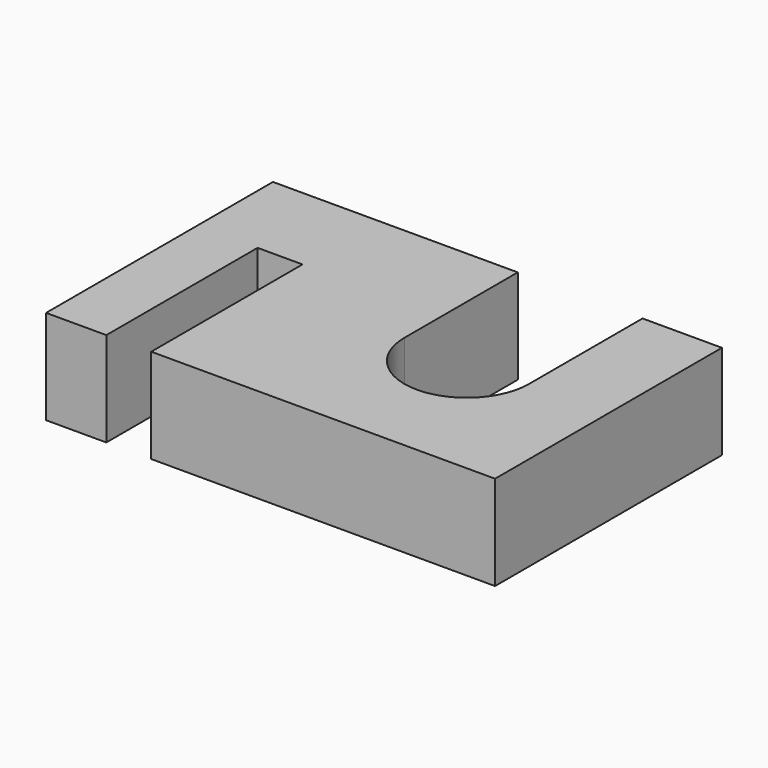
from build123d import *

# Parameters (mm, degrees)
F1_DEPTH = 25.4


with BuildPart() as f1:
    # F0 (on Top) → F1 (new body)
    with BuildSketch(Plane.XY):
        with BuildLine():
            Line((38.1, -38.1), (38.1, 38.1))
            Line((38.1, 38.1), (16.764, 38.1))
            Line((16.764, 38.1), (16.764, 0))
            ThreePointArc((16.764, 0), (0, -16.764), (-16.764, 0))
            Line((-16.764, 0), (-16.764, 38.1))
            Line((-16.764, 38.1), (-38.1, 38.1))
            Line((-38.1, 38.1), (-38.1, -38.1))
            Line((-38.1, -38.1), (38.1, -38.1))
        make_face()
        Polygon((-54.2925, -38.1), (-38.1, -38.1), (-38.1, 38.1), (-82.55, 38.1), (-82.55, -38.1), (-66.3575, -38.1), (-66.3575, 12.7), (-60.325, 12.7), (-54.2925, 12.7), align=None)
    extrude(amount=F1_DEPTH)


solid = f1.part
